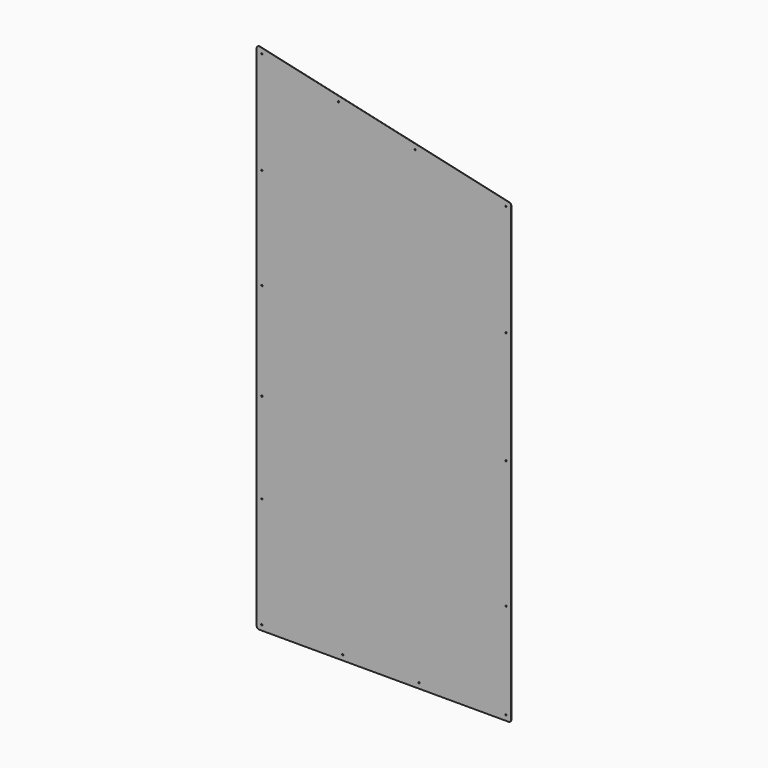
from build123d import *

# Parameters (mm, degrees)
F1_DEPTH = 1.3208
F2_R     = 3.175
F3_DEPTH = 25.4
F4_R     = 12.7


with BuildPart() as f1:
    # F0 (on Front) → F1 (new body)
    with BuildSketch(Plane.XZ):
        Polygon((0, 2514.6), (0, 0), (1244.6, 0), (1244.6, 2235.2), align=None)
    extrude(amount=F1_DEPTH)

    # F2 (on face) → F3 (cut)
    with BuildSketch(Plane.XZ.offset(1.3208)):
        with Locations((25.4, 2482.865801)):
            Circle(F2_R)
        with Locations((1219.2, 2214.869882)):
            Circle(F2_R)
        with Locations((399.952063, 2398.782685)):
            Circle(F2_R)
        with Locations((774.494473, 2314.701736)):
            Circle(F2_R)
        with Locations((1219.2, 25.4)):
            Circle(F2_R)
        with Locations((25.4, 25.4)):
            Circle(F2_R)
        with Locations((421.263099, 25.4)):
            Circle(F2_R)
        with Locations((794.35122, 25.4)):
            Circle(F2_R)
        with Locations((1219.2, 1120.134941)):
            Circle(F2_R)
        with Locations((1219.2, 1671.076059)):
            Circle(F2_R)
        with Locations((1219.2, 494.011074)):
            Circle(F2_R)
        with Locations((25.4, 1485.749841)):
            Circle(F2_R)
        with Locations((25.4, 1009.671807)):
            Circle(F2_R)
        with Locations((25.4, 566.66863)):
            Circle(F2_R)
        with Locations((25.4, 1981.021523)):
            Circle(F2_R)
    extrude(amount=-F3_DEPTH, mode=Mode.SUBTRACT)

    # F4
    f4_edges = [f1.edges().sort_by_distance(p)[0] for p in [
        (1244.6, -0.6604, 2235.2),
        (0, -0.6604, 2514.6),
        (1244.6, -0.6604, 0),
        (0, -0.6604, 0),
    ]]
    fillet(f4_edges, radius=F4_R)


solid = f1.part
